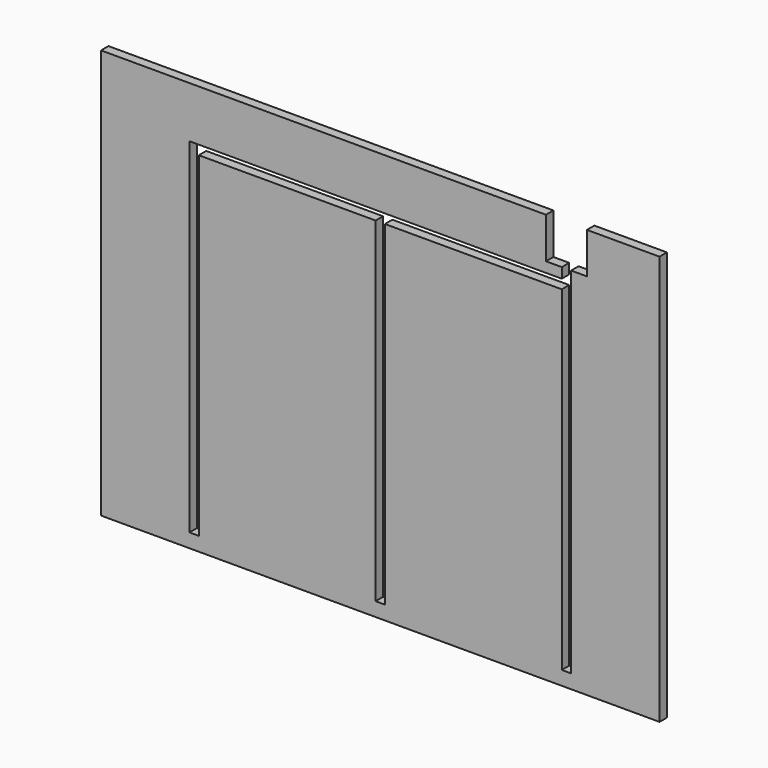
from build123d import *

# Parameters (mm, degrees)
F0_W     = 120.65
F0_H     = 111.125
F1_DEPTH = 6.35


with BuildPart() as f1:
    # F0 (on Front) → F1 (new body)
    with BuildSketch(Plane.XZ):
        Polygon((270.7948535681, 42.2965120316), (-32.7351464319, 42.2965120316), (-32.7351464319, -237.1034879684), (348.2648535681, -237.1034879684), (348.2648535681, 42.2965120316), (298.7348535681, 42.2965120316), (298.7348535681, 14.3565120316), (287.9398535681, 14.3565120316), (287.9398535681, 7.3715120316), (287.9398535681, 1.0215120316), (287.9398535681, -227.5784879684), (281.5898535681, -227.5784879684), (281.5898535681, -110.1034879684), (160.9398535681, -110.1034879684), (160.9398535681, -227.5784879684), (154.5898535681, -227.5784879684), (154.5898535681, -110.1034879684), (33.9398535681, -110.1034879684), (33.9398535681, -227.5784879684), (27.5898535681, -227.5784879684), (27.5898535681, 1.0215120316), (27.5898535681, 7.3715120316), (33.9398535681, 7.3715120316), (154.5898535681, 7.3715120316), (160.9398535681, 7.3715120316), (281.5898535681, 7.3715120316), (281.5898535681, 14.3565120316), (270.7948535681, 14.3565120316), align=None)
        with Locations((94.2648535681, -54.5409879684)):
            Rectangle(F0_W, F0_H)
        with Locations((221.2648535681, -54.5409879684)):
            Rectangle(F0_W, F0_H)
    extrude(amount=F1_DEPTH)


solid = f1.part
